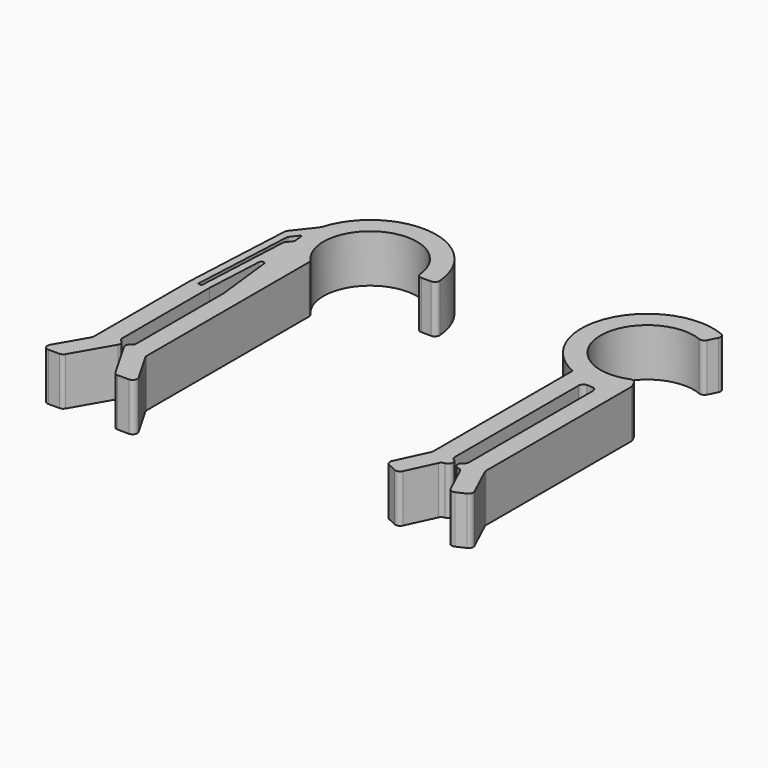
from build123d import *

# Parameters (mm, degrees)
F1_DEPTH = 10


with BuildPart() as f1:
    # F0 (on Top) → F1 (new body)
    with BuildSketch(Plane.XY):
        with BuildLine():
            ThreePointArc((-39.149014, 0.555049), (-35.714797, 15.965708), (-22.137661, 7.906947))
            ThreePointArc((-22.137661, 7.906947), (-21.822032, 7.272042), (-21.160935, 7.015766))
            Line((-21.160935, 7.015766), (-19.115405, 7.015766))
            ThreePointArc((-19.115405, 7.015766), (-18.395708, 7.330214), (-18.137471, 8.071938))
            ThreePointArc((-18.137471, 8.071938), (-30.38281, 20.687602), (-45.021742, 10.950819))
            ThreePointArc((-45.021742, 10.950819), (-45.090785, 10.779352), (-45.190208, 10.623522))
            Line((-45.190208, 10.623522), (-48.53729, 6.314973))
            ThreePointArc((-48.53729, 6.314973), (-48.685151, 6.049287), (-48.746332, 5.751446))
            Line((-48.746332, 5.751446), (-48.969351, 1.292664))
            Line((-48.969351, 1.292664), (-49.902766, -17.368967))
            Line((-49.902766, -17.368967), (-49.902766, -41.706997))
            Line((-49.902766, -41.706997), (-49.902766, -42.486413))
            ThreePointArc((-49.902766, -42.486413), (-49.93684, -42.745232), (-50.036741, -42.986413))
            Line((-50.036741, -42.986413), (-53.655543, -49.254362))
            ThreePointArc((-53.655543, -49.254362), (-53.655543, -50.254362), (-52.789518, -50.754362))
            Line((-52.789518, -50.754362), (-50.480117, -50.754362))
            ThreePointArc((-50.480117, -50.754362), (-49.980117, -50.620387), (-49.614091, -50.254362))
            Line((-49.614091, -50.254362), (-45.036741, -42.326159))
            ThreePointArc((-45.036741, -42.326159), (-44.93684, -41.56734), (-45.402766, -40.960133))
            ThreePointArc((-45.402766, -40.960133), (-45.768792, -40.594108), (-45.902766, -40.094108))
            Line((-45.902766, -40.094108), (-45.902766, -17.368967))
            Line((-45.902766, -17.368967), (-45.293323, -5.184456))
            ThreePointArc((-45.293323, -5.184456), (-44.809864, -4.709687), (-44.297173, -5.15273))
            Line((-44.297173, -5.15273), (-42.902766, -17.368967))
            Line((-42.902766, -17.368967), (-42.902766, -40.094108))
            ThreePointArc((-42.902766, -40.094108), (-43.036741, -40.594108), (-43.402766, -40.960133))
            ThreePointArc((-43.402766, -40.960133), (-43.868692, -41.56734), (-43.768792, -42.326159))
            Line((-43.768792, -42.326159), (-39.191441, -50.254362))
            ThreePointArc((-39.191441, -50.254362), (-38.825416, -50.620387), (-38.325416, -50.754362))
            Line((-38.325416, -50.754362), (-36.016015, -50.754362))
            ThreePointArc((-36.016015, -50.754362), (-35.14999, -50.254362), (-35.14999, -49.254362))
            Line((-35.14999, -49.254362), (-38.768792, -42.986413))
            ThreePointArc((-38.768792, -42.986413), (-38.868692, -42.745232), (-38.902766, -42.486413))
            Line((-38.902766, -42.486413), (-38.902766, -4.785781))
            Line((-38.902766, -4.785781), (-38.902766, -0.094887))
            ThreePointArc((-38.902766, -0.094887), (-38.966392, 0.252624), (-39.149014, 0.555049))
        make_face()
        with BuildLine():
            Line((-46.704188, -1.363111), (-47.495263, -17.178958))
            ThreePointArc((-47.495263, -17.178958), (-47.557169, -17.313878), (-47.695013, -17.368967))
            Line((-47.695013, -17.368967), (-48.090513, -17.368967))
            ThreePointArc((-48.090513, -17.368967), (-48.235423, -17.306811), (-48.290263, -17.158976))
            Line((-48.290263, -17.158976), (-48.282119, -16.99615))
            Line((-48.282119, -16.99615), (-47.470074, -0.761051))
            Line((-47.470074, -0.761051), (-47.207795, 4.482655))
            ThreePointArc((-47.207795, 4.482655), (-47.177204, 4.631576), (-47.103273, 4.764419))
            Line((-47.103273, 4.764419), (-45.928169, 6.277077))
            ThreePointArc((-45.928169, 6.277077), (-45.71125, 6.345487), (-45.570609, 6.166731))
            ThreePointArc((-45.570609, 6.166731), (-45.54398, 5.811168), (-45.50814, 5.456415))
            Line((-45.50814, 5.456415), (-45.389149, 4.413949))
            ThreePointArc((-45.389149, 4.413949), (-45.404495, 4.222239), (-45.491069, 4.050504))
            Line((-45.491069, 4.050504), (-46.401608, 2.878409))
            ThreePointArc((-46.401608, 2.878409), (-46.475538, 2.745566), (-46.506129, 2.596645))
            Line((-46.506129, 2.596645), (-46.704188, -1.363111))
        make_face(mode=Mode.SUBTRACT)
        with BuildLine():
            Line((23.597122, -5.689668), (24.097122, -5.689668))
            Line((24.097122, -5.689668), (24.597122, -5.689668))
            ThreePointArc((24.597122, -5.689668), (25.304229, -5.982561), (25.597122, -6.689668))
            Line((25.597122, -6.689668), (25.597122, -38.957617))
            ThreePointArc((25.597122, -38.957617), (25.463148, -39.457617), (25.097122, -39.823643))
            ThreePointArc((25.097122, -39.823643), (24.620826, -40.906108), (25.509967, -41.685863))
            ThreePointArc((25.509967, -41.685863), (25.996387, -41.862906), (26.329119, -42.259439))
            Line((26.329119, -42.259439), (29.081416, -48.16176))
            ThreePointArc((29.081416, -48.16176), (29.645704, -48.678834), (30.410342, -48.64545))
            Line((30.410342, -48.64545), (32.222958, -47.800213))
            ThreePointArc((32.222958, -47.800213), (32.740032, -47.235925), (32.706647, -46.471287))
            Line((32.706647, -46.471287), (29.690814, -40.003813))
            ThreePointArc((29.690814, -40.003813), (29.620826, -39.797635), (29.597122, -39.581195))
            Line((29.597122, -39.581195), (29.597122, -5.689668))
            Line((29.597122, -5.689668), (29.597122, -1.677608))
            ThreePointArc((29.597122, -1.677608), (29.569492, -1.444163), (29.488129, -1.223618))
            Line((29.488129, -1.223618), (28.956358, -0.17996))
            ThreePointArc((28.956358, -0.17996), (28.418317, 0.301686), (27.696214, 0.295425))
            ThreePointArc((27.696214, 0.295425), (14.347122, 9.356828), (27.696214, 18.418232))
            ThreePointArc((27.696214, 18.418232), (28.418317, 18.41197), (28.956358, 18.893616))
            Line((28.956358, 18.893616), (29.86767, 20.682166))
            ThreePointArc((29.86767, 20.682166), (29.91486, 21.482261), (29.359373, 22.060026))
            ThreePointArc((29.359373, 22.060026), (11.443924, 14.738191), (18.597122, -3.245255))
            Line((18.597122, -3.245255), (18.597122, -5.689668))
            Line((18.597122, -5.689668), (18.597122, -39.581195))
            ThreePointArc((18.597122, -39.581195), (18.573418, -39.797635), (18.50343, -40.003813))
            Line((18.50343, -40.003813), (15.487597, -46.471287))
            ThreePointArc((15.487597, -46.471287), (15.454213, -47.235925), (15.971287, -47.800213))
            Line((15.971287, -47.800213), (17.783903, -48.64545))
            ThreePointArc((17.783903, -48.64545), (18.548541, -48.678834), (19.112829, -48.16176))
            Line((19.112829, -48.16176), (21.865126, -42.259439))
            ThreePointArc((21.865126, -42.259439), (22.197857, -41.862906), (22.684278, -41.685863))
            ThreePointArc((22.684278, -41.685863), (23.573418, -40.906108), (23.097122, -39.823643))
            ThreePointArc((23.097122, -39.823643), (22.731097, -39.457617), (22.597122, -38.957617))
            Line((22.597122, -38.957617), (22.597122, -6.689668))
            ThreePointArc((22.597122, -6.689668), (22.890015, -5.982561), (23.597122, -5.689668))
        make_face()
    extrude(amount=F1_DEPTH)


solid = f1.part
